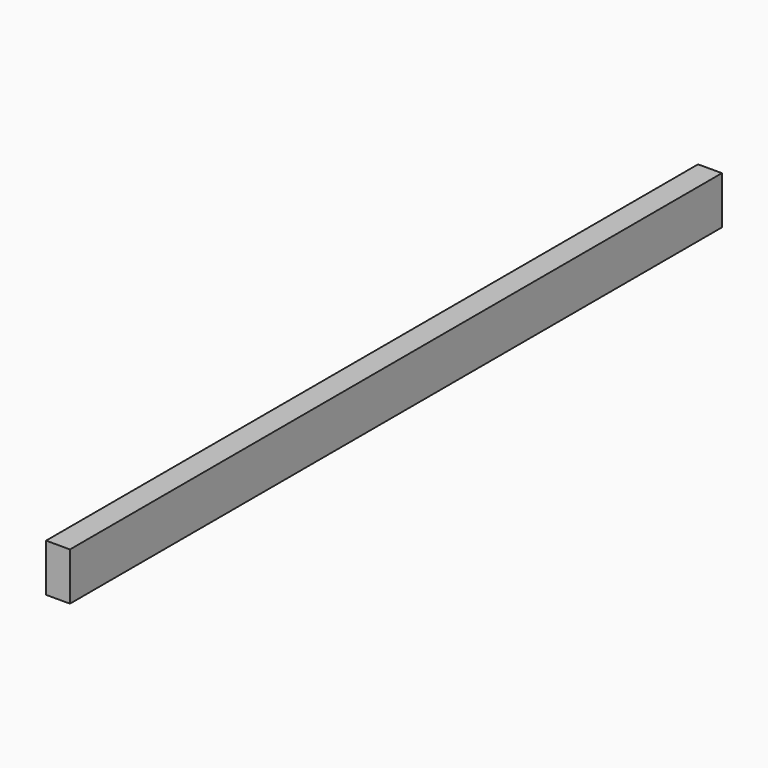
from build123d import *

# Parameters (mm, degrees)
SKETCH_W  = 650.1
SKETCH_H  = 38.1
PAD_DEPTH = 19.05


with BuildPart() as part:
    # Sketch → Pad (new body)
    with BuildSketch(Plane.YZ):
        with Locations((325.05, 19.05)):
            Rectangle(SKETCH_W, SKETCH_H)
    extrude(amount=PAD_DEPTH)


solid = part.part
